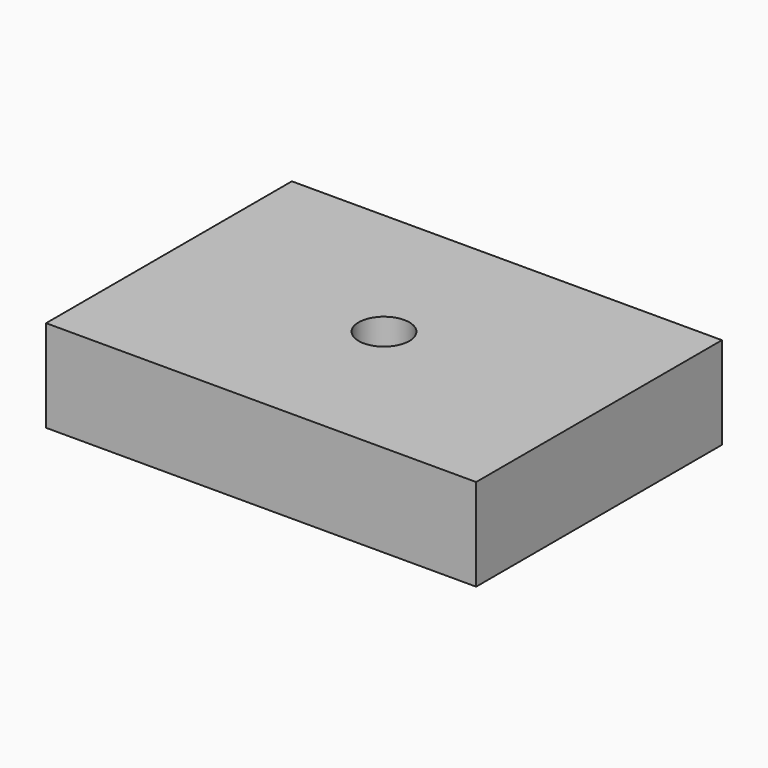
from build123d import *

# Parameters (mm, degrees)
F0_W     = 28
F0_H     = 20
F0_R     = 1.65
F1_DEPTH = 6
F2_R     = 1.2
F3_DEPTH = 10


with BuildPart() as f1:
    # F0 (on Top) → F1 (new body)
    with BuildSketch(Plane.XY):
        Rectangle(F0_W, F0_H)
        Circle(F0_R, mode=Mode.SUBTRACT)
    extrude(amount=F1_DEPTH)

    # F2 (on face) → F3 (cut)
    with BuildSketch(Plane(origin=(-14, 0, 0), x_dir=(0, -1, 0), z_dir=(-1, 0, 0))):
        with Locations((0, 3)):
            Circle(F2_R)
    extrude(amount=-F3_DEPTH, mode=Mode.SUBTRACT)


solid = f1.part
